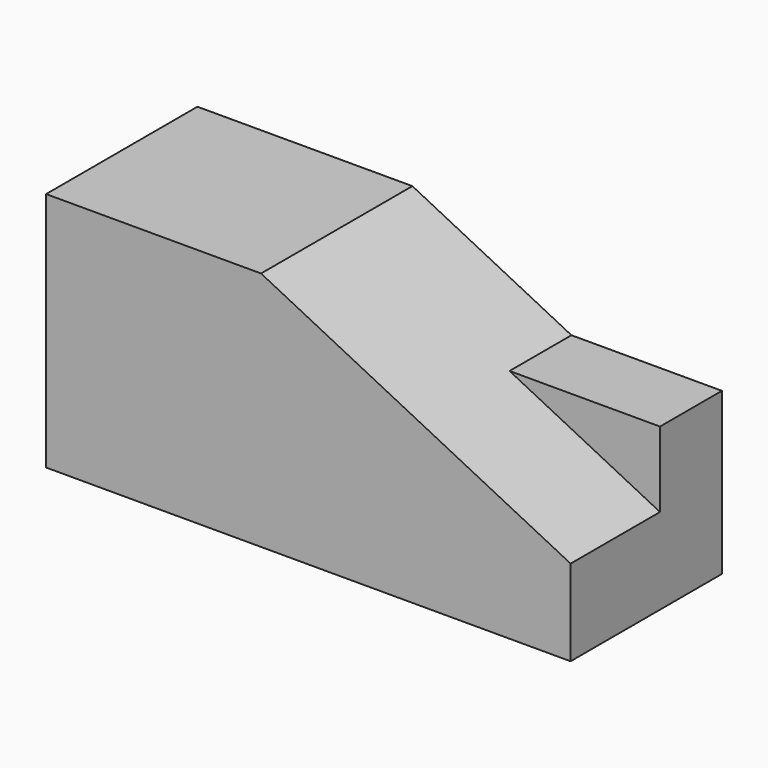
from build123d import *

# Parameters (mm, degrees)
F0_W     = 61
F0_H     = 22
F1_DEPTH = 28
F3_DEPTH = 22.001
F5_DEPTH = 9


with BuildPart() as f1:
    # F0 (on Top) → F1 (new body)
    with BuildSketch(Plane.XY):
        with Locations((30.5, -11)):
            Rectangle(F0_W, F0_H)
    extrude(amount=F1_DEPTH)

    # F2 (on face) → F3 (cut, through all)
    with BuildSketch(Plane.XZ.offset(22)):
        Polygon((61, 10), (61, 28), (25, 28), align=None)
    extrude(amount=-F3_DEPTH, mode=Mode.SUBTRACT)

    # F4 (on face) → F5 (join)
    with BuildSketch(Plane(origin=(0, 0, 0), x_dir=(-1, 0, 0), z_dir=(0, 1, 0))):
        Polygon((-61, 18.75), (-61, 10), (-43.5, 18.75), align=None)
    extrude(amount=-F5_DEPTH)


solid = f1.part
